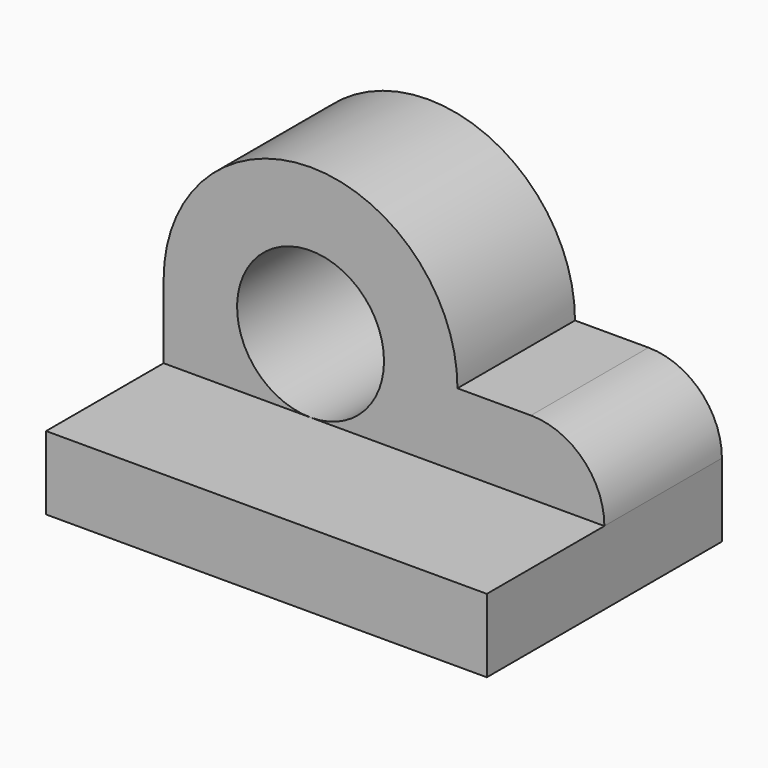
from build123d import *

# Parameters (mm, degrees)
SKETCH_W     = 60
SKETCH_H     = 40
PAD_DEPTH    = 10
SKETCH001_W  = 60
SKETCH001_H  = 20
PAD001_DEPTH = 10
FILLET_R     = 10
PAD002_DEPTH = 20
SKETCH003_R  = 10
POCKET_DEPTH = 20.001


with BuildPart() as part:
    # Sketch → Pad (new body)
    with BuildSketch(Plane.XY):
        Rectangle(SKETCH_W, SKETCH_H)
    extrude(amount=PAD_DEPTH)

    # Sketch001 (on Face6 of Pad) → Pad001 (join)
    with BuildSketch(Plane.XY.offset(10)):
        with Locations((0, 10)):
            Rectangle(SKETCH001_W, SKETCH001_H)
    extrude(amount=PAD001_DEPTH)

    # Fillet
    fillet_edges = [part.edges().sort_by_distance(p)[0] for p in [
        (30, 10, 20),
    ]]
    fillet(fillet_edges, radius=FILLET_R)

    # Sketch002 (on Face1 of Fillet) → Pad002 (join)
    with BuildSketch(Plane.XZ):
        with BuildLine():
            ThreePointArc((10, 20), (-10, 40), (-30, 20))
            Line((-30, 20), (10, 20))
        make_face()
    extrude(amount=-PAD002_DEPTH)

    # Sketch003 (on Face9 of Pad002) → Pocket (cut, through all)
    with BuildSketch(Plane.XZ):
        with Locations((-10, 20)):
            Circle(SKETCH003_R)
    extrude(amount=-POCKET_DEPTH, mode=Mode.SUBTRACT)


solid = part.part
